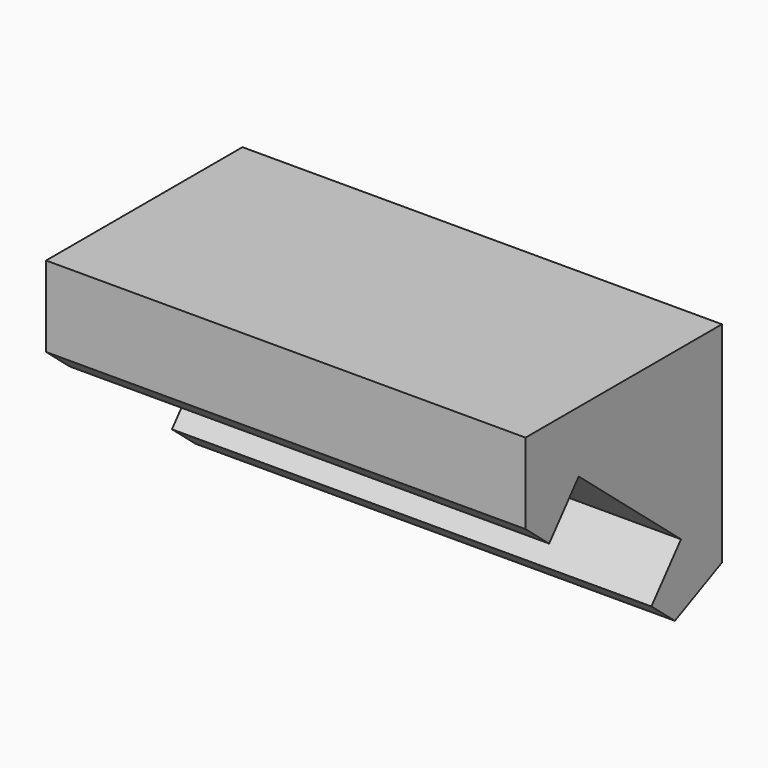
from build123d import *

# Parameters (mm, degrees)
F1_DEPTH = 25
F2_SIZE  = 4


with BuildPart() as f1:
    # F0 (on Right) → F1 (new body)
    with BuildSketch(Plane.YZ):
        Polygon((8.449347, 24.327182), (-4.350653, 24.327182), (-4.350653, 20.127182), (-2.811506, 18.835684), (-0.883143, 21.133818), (5.781444, 15.541565), (3.853081, 13.243432), (8.449347, 9.386706), align=None)
    extrude(amount=F1_DEPTH)

    # F2
    f2_edges = [f1.edges().sort_by_distance(p)[0] for p in [
        (12.5, 8.449347, 9.386706),
    ]]
    chamfer(f2_edges, length=F2_SIZE)


solid = f1.part
